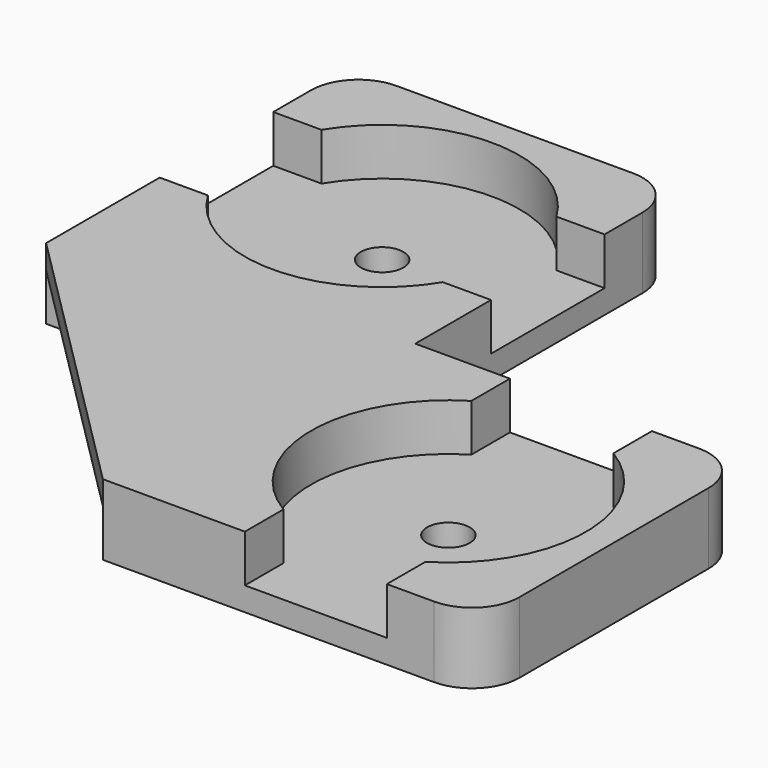
from build123d import *

# Parameters (mm, degrees)
SKETCH006_W                 = 14
SKETCH006_H                 = 14
PAD002_DEPTH                = 3
POCKET004_DEPTH             = 2
SKETCH008_R                 = 0.9
POCKET005_DEPTH             = 1.001
CLONE001007_PLACEMENT_ANGLE = 90
PAD_DEPTH                   = 3
SKETCH010_W                 = 12
SKETCH010_H                 = 12
POCKET_DEPTH                = 2
CLONE001006_PLACEMENT_ANGLE = 180
FILLET001_R                 = 2
CLONE001009_PLACEMENT_ANGLE = -90
CLONE001012_PLACEMENT_ANGLE = 180


with BuildPart() as obj1:
    # Sketch006 → Pad002 (new body)
    with BuildSketch(Plane.XY):
        Rectangle(SKETCH006_W, SKETCH006_H)
    extrude(amount=PAD002_DEPTH)

    # Sketch007 → Pocket004 (cut)
    with BuildSketch(Plane.XY.offset(3)):
        with BuildLine():
            Line((-3, 7), (-3, 4.963869))
            ThreePointArc((-3, 4.963869), (-5.8, 0), (-3, -4.963869))
            Line((-3, -7), (-3, -4.963869))
            Line((3, -7), (-3, -7))
            Line((3, -4.963869), (3, -7))
            ThreePointArc((3, -4.963869), (5.8, 0), (3, 4.963869))
            Line((3, 7), (3, 4.963869))
            Line((-3, 7), (3, 7))
        make_face()
    extrude(amount=-POCKET004_DEPTH, mode=Mode.SUBTRACT)

    # Sketch008 → Pocket005 (cut, through all)
    with BuildSketch(Plane.XY.offset(1)):
        Circle(SKETCH008_R)
    extrude(amount=-POCKET005_DEPTH, mode=Mode.SUBTRACT)


with BuildPart() as obj1_1:
    # Clone001005 placement: moved
    add(obj1.part.moved(Location((14, 0, 0))))


with BuildPart() as obj2:
    # Clone001007 base: copy of obj1
    add(obj1_1.part)


with BuildPart() as obj2_1:
    # Clone001007 placement: moved
    add(obj2.part.moved(Location((0, -28, 0))).rotate(Axis((0, -28, 0), (0, 0, 1)), CLONE001007_PLACEMENT_ANGLE))


with BuildPart() as obj3:
    # Sketch → Pad (new body)
    with BuildSketch(Plane.XY):
        Polygon((-7, -7), (-7, 7), (7, 7), (7, 5), (-5, -7), align=None)
    extrude(amount=PAD_DEPTH)

    # Sketch010 → Pocket (cut)
    with BuildSketch(Plane(origin=(0, 0, 0), x_dir=(1, 0, 0), z_dir=(0, 0, -1))):
        with Locations((1, 1)):
            Rectangle(SKETCH010_W, SKETCH010_H)
    extrude(amount=-POCKET_DEPTH, mode=Mode.SUBTRACT)


with BuildPart() as obj3_1:
    # Clone001006 placement: moved
    add(obj3.part.rotate(Axis((0, 0, 0), (0, 0, 1)), CLONE001006_PLACEMENT_ANGLE))


with BuildPart() as corner_holder_double002:
    # Fusion001 base: copy of obj1
    add(obj1_1.part)

    # Fusion001: union obj2, obj3
    add(obj2_1.part)
    add(obj3_1.part)

    # Fillet001
    fillet001_edges = [corner_holder_double002.edges().sort_by_distance(p)[0] for p in [
        (21, 7, 1.5),
        (21, -7, 1.5),
        (7, -21, 1.5),
        (-7, -21, 1.5),
    ]]
    fillet(fillet001_edges, radius=FILLET001_R)


with BuildPart() as corner_holder_double002_1:
    # Clone001008 placement: moved
    add(corner_holder_double002.part.moved(Location((-13.497608, 48.033168, 0))))


with BuildPart() as corner_holder_double002_2:
    # Clone001009 placement: moved
    add(corner_holder_double002_1.part.moved(Location((-30.900794, -30.494573, 0))).rotate(Axis((-30.900794, -30.494573, 0), (0, 0, 1)), CLONE001009_PLACEMENT_ANGLE))


with BuildPart() as corner_holder_double002_3:
    # Clone001012 placement: moved
    add(corner_holder_double002_2.part.moved(Location((84.263711, 16.007107, 0))).rotate(Axis((84.263711, 16.007107, 0), (0, 0, 1)), CLONE001012_PLACEMENT_ANGLE))


solid = corner_holder_double002_3.part
